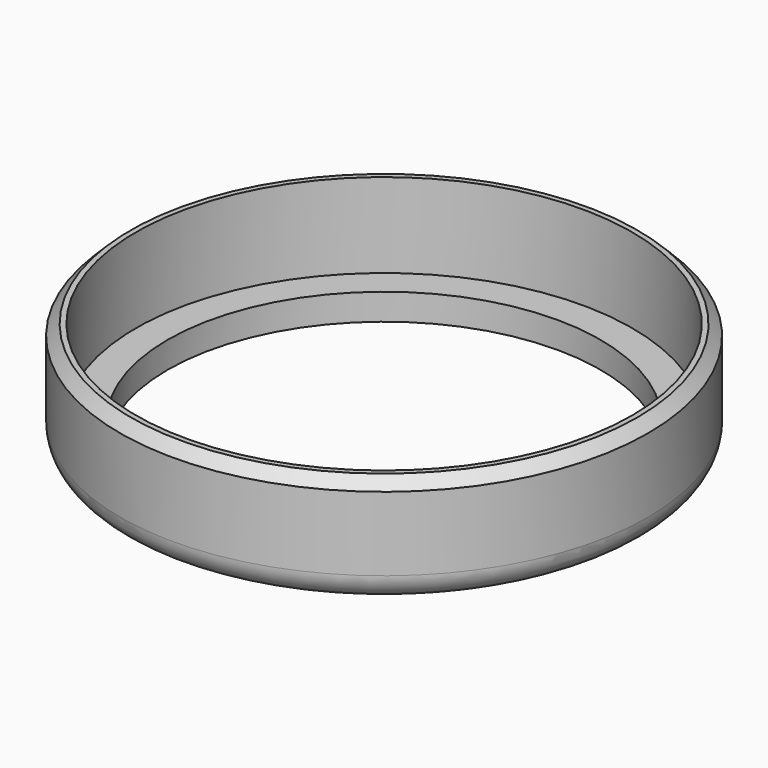
from build123d import *

# Parameters (mm, degrees)
F0_R     = 47.5
F0_R_2   = 41
F1_DEPTH = 5
F2_R     = 50
F2_R_2   = 47
F3_DEPTH = 21
F4_R     = 5
F5_SIZE  = 2


with BuildPart() as f1:
    # F0 (on Top) → F1 (new body)
    with BuildSketch(Plane.XY):
        Circle(F0_R)
        Circle(F0_R_2, mode=Mode.SUBTRACT)
    extrude(amount=F1_DEPTH)

    # F2 (on Top) → F3 (join)
    with BuildSketch(Plane.XY):
        Circle(F2_R)
        Circle(F2_R_2, mode=Mode.SUBTRACT)
    extrude(amount=F3_DEPTH)

    # F4
    f4_edges = [f1.edges().sort_by_distance(p)[0] for p in [
        (-50, 0, 0),
    ]]
    fillet(f4_edges, radius=F4_R)

    # F5
    f5_edges = [f1.edges().sort_by_distance(p)[0] for p in [
        (-50, 0, 21),
    ]]
    chamfer(f5_edges, length=F5_SIZE)


solid = f1.part
